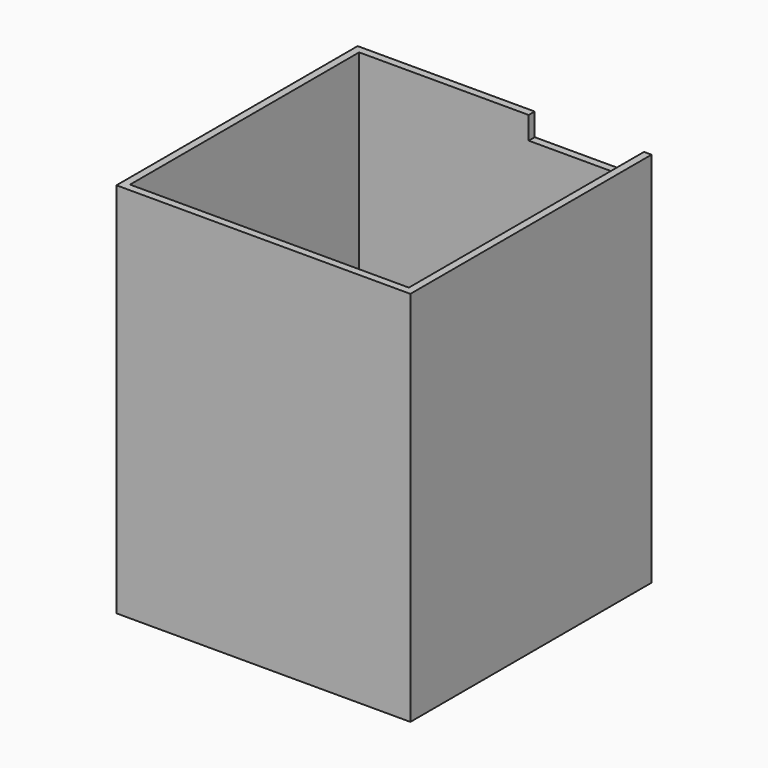
from build123d import *

# Parameters (mm, degrees)
F0_W      = 78
F0_H      = 80
F1_DEPTH  = 100
F2_T      = -2
F3_W      = 74
F3_H      = 2
F4_DEPTH  = 75
F5_W      = 72.1805748753
F5_H      = 9.0993850976
F6_DEPTH  = 25
F8_DEPTH  = 38.5
F9_W      = 29
F9_H      = 2
F10_DEPTH = 6


with BuildPart() as f1:
    # F0 (on Top) → F1 (new body)
    with BuildSketch(Plane.XY):
        with Locations((39, 40)):
            Rectangle(F0_W, F0_H)
    extrude(amount=F1_DEPTH)

    # F2
    f2_openings = [f1.faces().sort_by_distance(p)[0] for p in [
        (39, 40, 100),
    ]]
    offset(amount=F2_T, openings=f2_openings)

    # F3 (on face) → F4 (join)
    with BuildSketch(Plane.XY.offset(2)):
        with Locations((39, 11.5)):
            Rectangle(F3_W, F3_H)
    extrude(amount=F4_DEPTH)

    # F5 (on face) → F6 (join)
    with BuildSketch(Plane.XY.offset(2)):
        with Locations((39.9097125623, 6.5496925488)):
            Rectangle(F5_W, F5_H)
    extrude(amount=F6_DEPTH)

    # F7 (on face) → F8 (cut)
    with BuildSketch(Plane.XY.offset(27)):
        with BuildLine():
            Line((70.4722125623, 10.5), (9.4722125623, 10.5))
            ThreePointArc((9.4722125623, 10.5), (5.2222125623, 6.25), (9.4722125623, 2))
            Line((9.4722125623, 2), (70.4722125623, 2))
            ThreePointArc((70.4722125623, 2), (74.7222125623, 6.25), (70.4722125623, 10.5))
        make_face()
    extrude(amount=-F8_DEPTH, mode=Mode.SUBTRACT)

    # F9 (on face) → F10 (cut)
    with BuildSketch(Plane.XY.offset(100)):
        with Locations((61.5, 79)):
            Rectangle(F9_W, F9_H)
    extrude(amount=-F10_DEPTH, mode=Mode.SUBTRACT)


solid = f1.part
